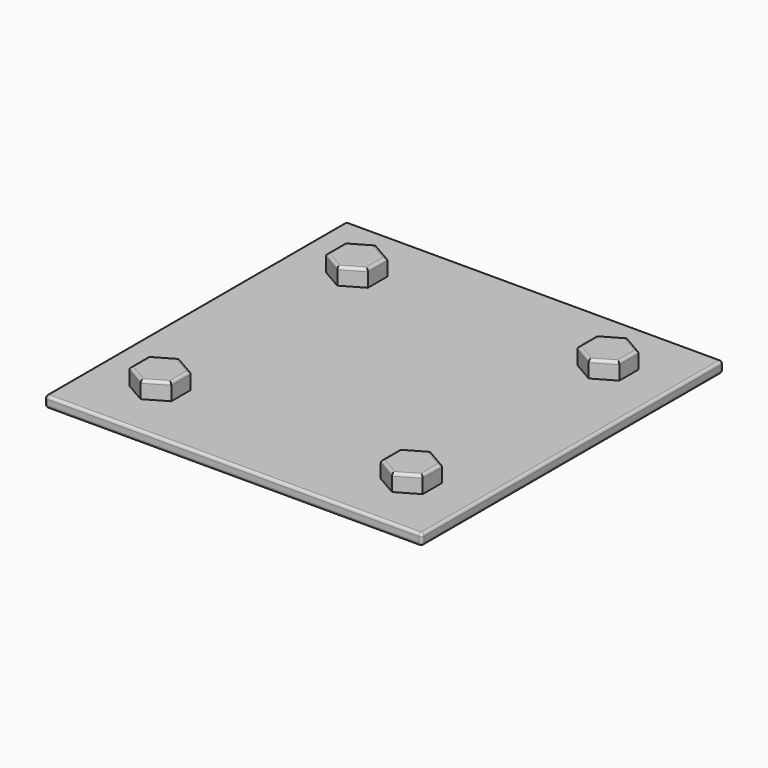
from build123d import *

# Parameters (mm, degrees)
F0_W     = 135
F0_H     = 135
F1_DEPTH = 4
F2_R     = 1
F4_DEPTH = 6
F5_R     = 1


with BuildPart() as f1:
    # F0 (on Top) → F1 (new body)
    with BuildSketch(Plane.XY):
        with Locations((67.5, 67.5)):
            Rectangle(F0_W, F0_H)
    extrude(amount=F1_DEPTH)

    # F2
    f2_edges = [f1.edges().sort_by_distance(p)[0] for p in [
        (0, 67.5, 4),
        (67.5, 0, 4),
        (135, 67.5, 4),
        (67.5, 135, 4),
        (0, 67.5, 0),
        (67.5, 0, 0),
        (135, 67.5, 0),
        (67.5, 135, 0),
        (135, 0, 2),
        (0, 0, 2),
        (135, 135, 2),
        (0, 135, 2),
    ]]
    fillet(f2_edges, radius=F2_R)

    # F3 (on face) → F4 (join)
    with BuildSketch(Plane.XY.offset(4)):
        Polygon((22.5, 102.839746), (30, 107.169873), (30, 115.830127), (22.5, 120.160254), (15, 115.830127), (15, 107.169873), align=None)
        Polygon((120, 115.830127), (112.5, 120.160254), (105, 115.830127), (105, 107.169873), (112.5, 102.839746), (120, 107.169873), align=None)
        Polygon((30, 19.169873), (30, 27.830127), (22.5, 32.160254), (15, 27.830127), (15, 19.169873), (22.5, 14.839746), align=None)
        Polygon((105, 19.169873), (112.5, 14.839746), (120, 19.169873), (120, 27.830127), (112.5, 32.160254), (105, 27.830127), align=None)
    extrude(amount=F4_DEPTH)

    # F5
    f5_edges = [f1.edges().sort_by_distance(p)[0] for p in [
        (26.25, 105.004809, 10),
        (30, 111.5, 10),
        (26.25, 117.995191, 10),
        (18.75, 117.995191, 10),
        (15, 111.5, 10),
        (18.75, 105.004809, 10),
        (116.25, 105.004809, 10),
        (120, 111.5, 10),
        (116.25, 117.995191, 10),
        (108.75, 117.995191, 10),
        (105, 111.5, 10),
        (108.75, 105.004809, 10),
        (108.75, 29.995191, 10),
        (105, 23.5, 10),
        (108.75, 17.004809, 10),
        (116.25, 17.004809, 10),
        (120, 23.5, 10),
        (116.25, 29.995191, 10),
        (26.25, 17.004809, 10),
        (30, 23.5, 10),
        (26.25, 29.995191, 10),
        (18.75, 29.995191, 10),
        (15, 23.5, 10),
        (18.75, 17.004809, 10),
    ]]
    fillet(f5_edges, radius=F5_R)


solid = f1.part
